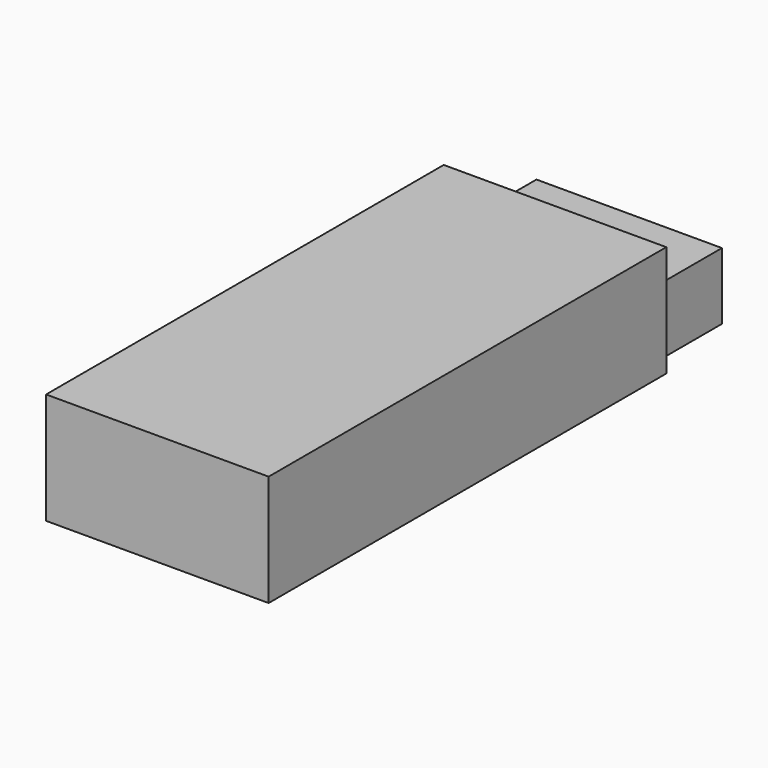
from build123d import *

# Parameters (mm, degrees)
F1_DEPTH = 12.5
F2_W     = 30
F2_H     = 67
F3_DEPTH = 15
F4_W     = 25
F4_H     = 50
F5_DEPTH = 8


with BuildPart() as f1:
    # F0 (on Right) → F1 (new body, symmetric)
    with BuildSketch(Plane.YZ):
        Polygon((0, 14), (0, 0), (46, 0), (46, 9), (18, 9), (13, 14), align=None)
    extrude(amount=F1_DEPTH, both=True)


with BuildPart() as f3:
    # F2 (on Top) → F3 (new body)
    with BuildSketch(Plane.XY):
        Rectangle(F2_W, F2_H)
    extrude(amount=F3_DEPTH)


with BuildPart() as f5:
    # F4 (on Top) → F5 (new body)
    with BuildSketch(Plane.XY):
        Rectangle(F4_W, F4_H)
    extrude(amount=F5_DEPTH)


solid = Compound([f1.part, f3.part, f5.part])
